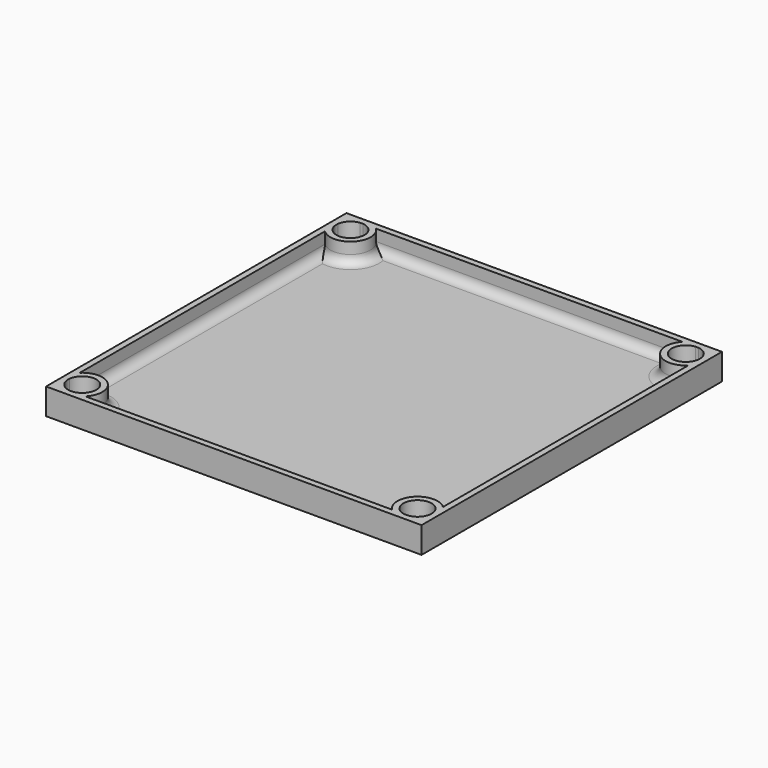
from build123d import *

# Parameters (mm, degrees)
F0_W     = 215
F0_H     = 215
F1_DEPTH = 15
F2_T     = -3.5
F3_R     = 11.5
F3_R_2   = 8.05
F4_DEPTH = 15
F5_R     = 5


with BuildPart() as f1:
    # F0 (on Top) → F1 (new body)
    with BuildSketch(Plane.XY):
        with Locations((107.5, 107.5)):
            Rectangle(F0_W, F0_H)
    extrude(amount=F1_DEPTH)

    # F2
    f2_openings = [f1.faces().sort_by_distance(p)[0] for p in [
        (107.5, 107.5, 15),
    ]]
    offset(amount=F2_T, openings=f2_openings)

    # F3 (on face) → F4 (join, through all)
    with BuildSketch(Plane(origin=(0, 0, 0), x_dir=(1, 0, 0), z_dir=(0, 0, -1))):
        with Locations((11.5, -11.5)):
            Circle(F3_R)
        with Locations((11.5, -11.5)):
            Circle(F3_R_2, mode=Mode.SUBTRACT)
        with Locations((11.5, -203.5)):
            Circle(F3_R)
        with Locations((11.5, -203.5)):
            Circle(F3_R_2, mode=Mode.SUBTRACT)
        with Locations((203.5, -11.5)):
            Circle(F3_R)
        with Locations((203.5, -11.5)):
            Circle(F3_R_2, mode=Mode.SUBTRACT)
        with Locations((203.5, -203.5)):
            Circle(F3_R)
        with Locations((203.5, -203.5)):
            Circle(F3_R_2, mode=Mode.SUBTRACT)
    extrude(amount=-F4_DEPTH)

    # F5
    f5_edges = [f1.edges().sort_by_distance(p)[0] for p in [
        (19.631728, 195.368272, 3.5),
        (107.5, 211.5, 3.5),
        (3.5, 107.5, 3.5),
        (195.368272, 195.368272, 3.5),
        (211.5, 107.5, 3.5),
        (19.631728, 19.631728, 3.5),
        (107.5, 3.5, 3.5),
        (195.368272, 19.631728, 3.5),
    ]]
    fillet(f5_edges, radius=F5_R)


solid = f1.part
